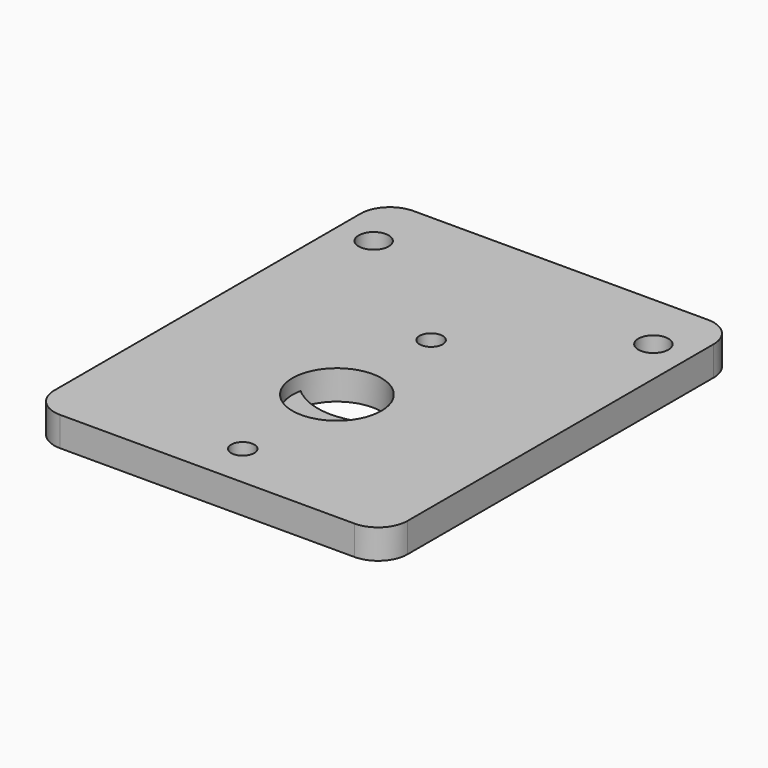
from build123d import *

# Parameters (mm, degrees)
F0_W     = 76.2
F0_H     = 95.25
F0_R     = 2.4892
F0_R_2   = 9.5885
F0_R_3   = 3.2385
F1_DEPTH = 6.35
F2_R     = 6.35
F3_R     = 14.2875
F3_R_2   = 3.2385
F4_DEPTH = 3.175
F5_R     = 6.35


with BuildPart() as f1:
    # F0 (on Top) → F1 (new body)
    with BuildSketch(Plane.XY):
        Rectangle(F0_W, F0_H)
        with Locations((0, -38.1)):
            Circle(F0_R, mode=Mode.SUBTRACT)
        with Locations((0, -12.7)):
            Circle(F0_R_2, mode=Mode.SUBTRACT)
        with Locations((-30.1625, 34.925)):
            Circle(F0_R_3, mode=Mode.SUBTRACT)
        with Locations((0, 12.7)):
            Circle(F0_R, mode=Mode.SUBTRACT)
        with Locations((30.1625, 34.925)):
            Circle(F0_R_3, mode=Mode.SUBTRACT)
    extrude(amount=F1_DEPTH)

    # F2
    f2_edges = [f1.edges().sort_by_distance(p)[0] for p in [
        (-38.1, 47.625, 3.175),
        (-38.1, -47.625, 3.175),
        (38.1, -47.625, 3.175),
        (38.1, 47.625, 3.175),
    ]]
    fillet(f2_edges, radius=F2_R)


with BuildPart() as f4:
    # F3 (on Top) → F4 (new body)
    with BuildSketch(Plane.XY):
        with BuildLine():
            Line((25.4, 50.8), (-25.4, 50.8))
            Line((-25.4, 50.8), (-25.4, 25.4))
            Line((-25.4, 25.4), (-18.563824, -4.276324))
            ThreePointArc((-18.563824, -4.276324), (0, -19.05), (18.563824, -4.276324))
            Line((18.563824, -4.276324), (25.4, 25.4))
            Line((25.4, 25.4), (25.4, 50.8))
        make_face()
        Circle(F3_R, mode=Mode.SUBTRACT)
        with Locations((-15.875, 38.1)):
            Circle(F3_R_2, mode=Mode.SUBTRACT)
        with Locations((15.875, 38.1)):
            Circle(F3_R_2, mode=Mode.SUBTRACT)
    extrude(amount=F4_DEPTH)

    # F5
    f5_edges = [f4.edges().sort_by_distance(p)[0] for p in [
        (25.4, 50.8, 1.5875),
        (25.4, 25.4, 1.5875),
        (-25.4, 25.4, 1.5875),
        (-25.4, 50.8, 1.5875),
    ]]
    fillet(f5_edges, radius=F5_R)


solid = Compound([f1.part, f4.part])
